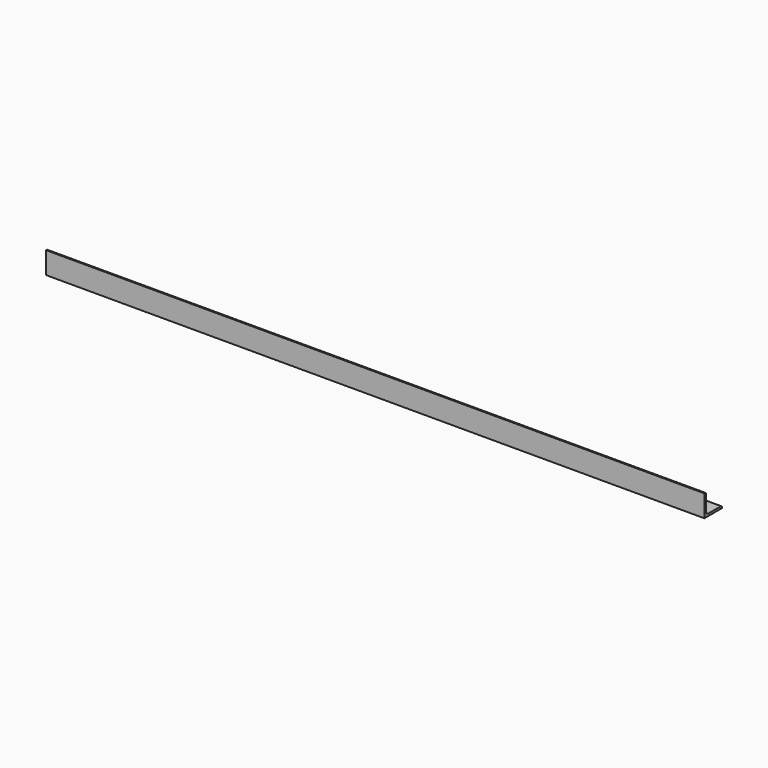
from build123d import *

# Parameters (mm, degrees)
F1_DEPTH = 1200


with BuildPart() as f1:
    # F0 (on Right) → F1 (new body, symmetric)
    with BuildSketch(Plane.YZ):
        with BuildLine():
            Line((56.930197, -53.301039), (136.930197, -53.301039))
            Line((136.930197, -53.301039), (136.930197, -50.301039))
            ThreePointArc((136.930197, -50.301039), (135.465731, -46.765505), (131.930197, -45.301039))
            Line((131.930197, -45.301039), (74.930197, -45.301039))
            ThreePointArc((74.930197, -45.301039), (67.859129, -42.372107), (64.930197, -35.301039))
            Line((64.930197, -35.301039), (64.930197, 21.698961))
            ThreePointArc((64.930197, 21.698961), (63.465731, 25.234495), (59.930197, 26.698961))
            Line((59.930197, 26.698961), (56.930197, 26.698961))
            Line((56.930197, 26.698961), (56.930197, -53.301039))
        make_face()
    extrude(amount=F1_DEPTH, both=True)


solid = f1.part
